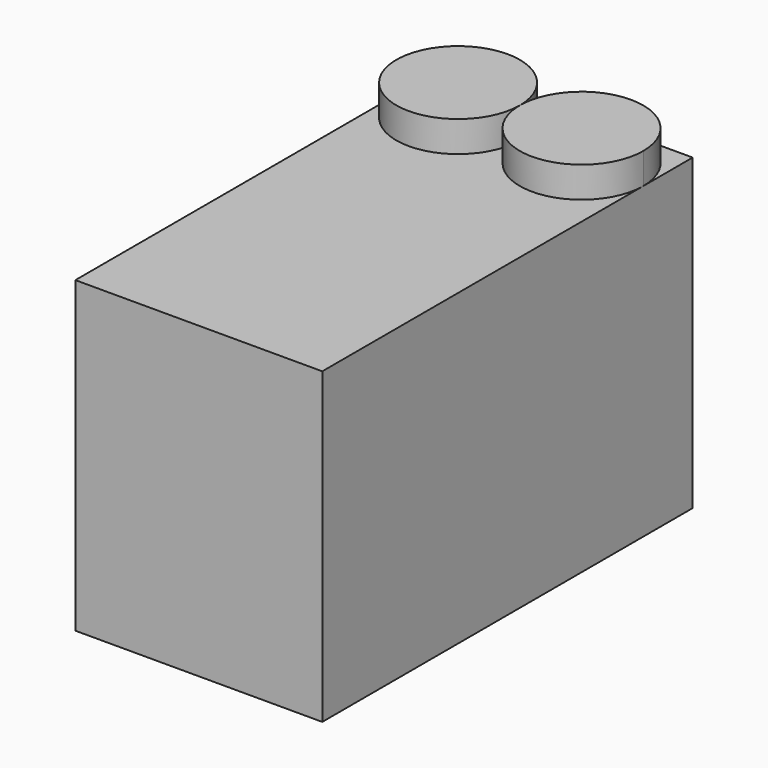
from build123d import *

# Parameters (mm, degrees)
F0_W     = 8
F0_H     = 15
F1_DEPTH = 10
F2_R     = 2
F4_DEPTH = 1
F5_DEPTH = 1


with BuildPart() as f1:
    # F0 (on Top) → F1 (new body)
    with BuildSketch(Plane.XY):
        with Locations((8.242821, 12.237294)):
            Rectangle(F0_W, F0_H)
    extrude(amount=F1_DEPTH)

    # F2 (on face) → F4 (join)
    with BuildSketch(Plane.XY.offset(10)):
        with Locations((6.242821, 17.737294)):
            Circle(F2_R)
    extrude(amount=F4_DEPTH)


with BuildPart() as f5:
    # F3 (on face) → F5 (new body)
    with BuildSketch(Plane.XY.offset(10)):
        with BuildLine():
            ThreePointArc((10.242821, 19.737294), (8.828607, 16.32308), (12.242821, 17.737294))
            ThreePointArc((12.242821, 17.737294), (11.657034, 19.151508), (10.242821, 19.737294))
        make_face()
    extrude(amount=F5_DEPTH)


solid = Compound([f1.part, f5.part])
